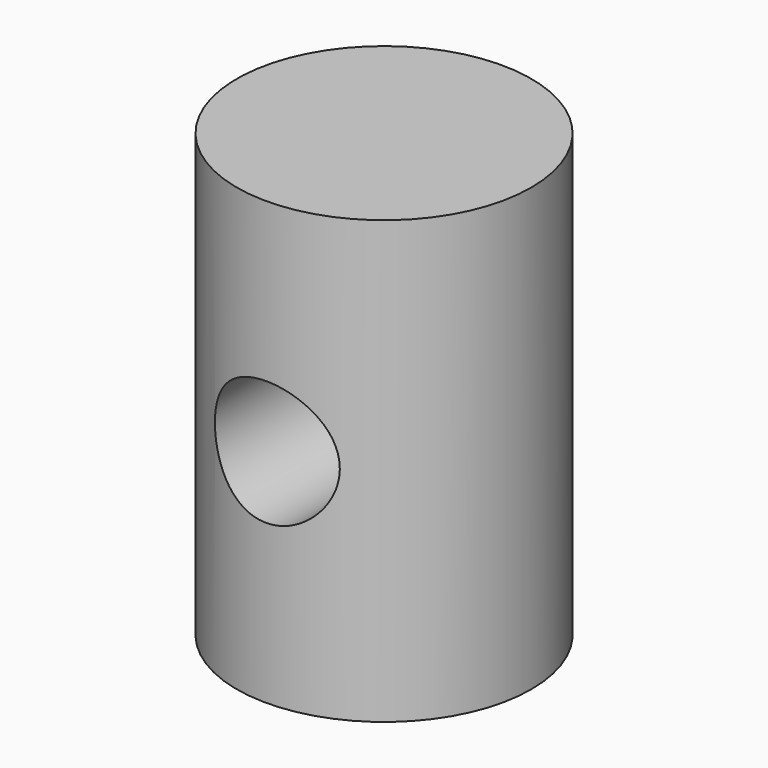
from build123d import *

# Parameters (mm, degrees)
F0_R     = 5
F1_DEPTH = 7.5
F4_R     = 2.12
F3_DEPTH = 30.001


with BuildPart() as f1:
    # F0 (on Top) → F1 (new body, symmetric)
    with BuildSketch(Plane.XY):
        Circle(F0_R)
    extrude(amount=F1_DEPTH, both=True)

    # F4 (on offset) → F3 (cut, through all)
    with BuildSketch(Plane.XZ.offset(25)):
        Circle(F4_R)
    extrude(amount=-F3_DEPTH, mode=Mode.SUBTRACT)


solid = f1.part
